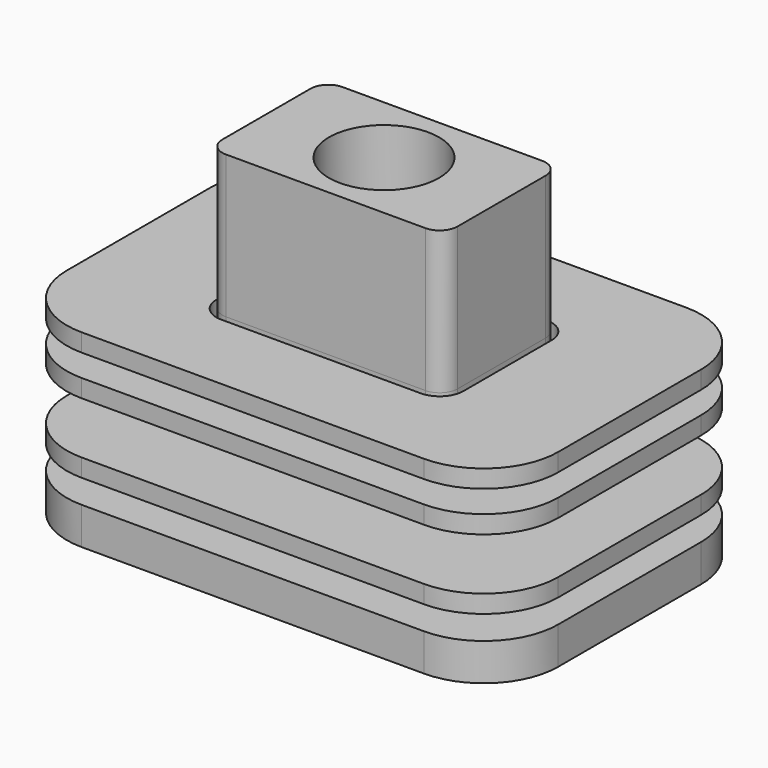
from build123d import *

# Parameters (mm, degrees)
F0_W           = 33
F0_H           = 22
F0_R           = 3.25
F1_DEPTH       = 2.5
F2_W           = 15.8
F2_H           = 9.8
F2_R           = 3.25
F3_DEPTH       = 7.8
F4_W           = 15.8
F4_H           = 9.8
F4_R           = 2.2
F5_DEPTH       = 2.4
F6_W           = 15.8
F6_H           = 9.8
F7_DEPTH       = 9.6
F9_D           = 4.4
F9_CBORE_D     = 7.4
F9_CBORE_DEPTH = 6.6
F10_R          = 5
F11_R          = 1.2
F11_2_R        = 1.2
F13_DEPTH      = 1.2
F15_DEPTH      = 2.7
F17_DEPTH      = 1.2
F20_DEPTH      = 1.2


with BuildPart() as f1:
    # F0 (on Top) → F1 (new body)
    with BuildSketch(Plane.XY):
        Rectangle(F0_W, F0_H)
        Circle(F0_R, mode=Mode.SUBTRACT)
    extrude(amount=F1_DEPTH)

    # F2 (on face) → F3 (join)
    with BuildSketch(Plane.XY.offset(2.5)):
        Rectangle(F2_W, F2_H)
        Circle(F2_R, mode=Mode.SUBTRACT)
    extrude(amount=F3_DEPTH)

    # F4 (on face) → F5 (join)
    with BuildSketch(Plane.XY.offset(10.3)):
        Rectangle(F4_W, F4_H)
        Circle(F4_R, mode=Mode.SUBTRACT)
    extrude(amount=F5_DEPTH)

    # F10
    f10_edges = [f1.edges().sort_by_distance(p)[0] for p in [
        (16.5, -11, 1.25),
        (16.5, 11, 1.25),
        (-16.5, -11, 1.25),
        (-16.5, 11, 1.25),
    ]]
    fillet(f10_edges, radius=F10_R)

    # F11
    f11_edges = [f1.edges().sort_by_distance(p)[0] for p in [
        (-7.9, 4.9, 7.6),
        (-7.9, -4.9, 7.6),
        (7.9, 4.9, 7.6),
        (7.9, -4.9, 7.6),
    ]]
    fillet(f11_edges, radius=F11_R)


with BuildPart() as f7:
    # F6 (on face) → F7 (new body)
    with BuildSketch(Plane.XY.offset(12.7)):
        Rectangle(F6_W, F6_H)
    extrude(amount=F7_DEPTH)

    # F9 (through all)
    with Locations(Plane.XY.offset(22.3)):
        with Locations((0, 0)):
            CounterBoreHole(F9_D / 2, F9_CBORE_D / 2, F9_CBORE_DEPTH)

    # F11#2
    f11_2_edges = [f7.edges().sort_by_distance(p)[0] for p in [
        (7.9, 4.9, 17.5),
        (7.9, -4.9, 17.5),
        (-7.9, 4.9, 17.5),
        (-7.9, -4.9, 17.5),
    ]]
    fillet(f11_2_edges, radius=F11_2_R)


with BuildPart() as f13:
    # F12 (on face) → F13 (new body)
    with BuildSketch(Plane.XY.offset(12.7)):
        with BuildLine():
            Line((11.5, 11), (-11.5, 11))
            ThreePointArc((-11.5, 11), (-15.035534, 9.535534), (-16.5, 6))
            Line((-16.5, 6), (-16.5, -6))
            ThreePointArc((-16.5, -6), (-15.035534, -9.535534), (-11.5, -11))
            Line((-11.5, -11), (11.5, -11))
            ThreePointArc((11.5, -11), (15.035534, -9.535534), (16.5, -6))
            Line((16.5, -6), (16.5, 6))
            ThreePointArc((16.5, 6), (15.035534, 9.535534), (11.5, 11))
        make_face()
        with BuildLine():
            Line((-6.7, 5.3), (6.7, 5.3))
            ThreePointArc((6.7, 5.3), (7.831371, 4.831371), (8.3, 3.7))
            Line((8.3, 3.7), (8.3, -3.7))
            ThreePointArc((8.3, -3.7), (7.831371, -4.831371), (6.7, -5.3))
            Line((6.7, -5.3), (-6.7, -5.3))
            ThreePointArc((-6.7, -5.3), (-7.831371, -4.831371), (-8.3, -3.7))
            Line((-8.3, -3.7), (-8.3, 3.7))
            ThreePointArc((-8.3, 3.7), (-7.831371, 4.831371), (-6.7, 5.3))
        make_face(mode=Mode.SUBTRACT)
    extrude(amount=-F13_DEPTH)

    # F14 (on face) → F15 (join)
    with BuildSketch(Plane(origin=(0, 0, 11.5), x_dir=(1, 0, 0), z_dir=(0, 0, -1))):
        with BuildLine():
            ThreePointArc((-6.7, 6.5), (-8.679899, 5.679899), (-9.5, 3.7))
            Line((-9.5, 3.7), (-9.5, -3.7))
            ThreePointArc((-9.5, -3.7), (-8.679899, -5.679899), (-6.7, -6.5))
            Line((-6.7, -6.5), (6.7, -6.5))
            ThreePointArc((6.7, -6.5), (8.679899, -5.679899), (9.5, -3.7))
            Line((9.5, -3.7), (9.5, 3.7))
            ThreePointArc((9.5, 3.7), (8.679899, 5.679899), (6.7, 6.5))
            Line((6.7, 6.5), (-6.7, 6.5))
        make_face()
        with BuildLine():
            Line((-6.7, 5.3), (6.7, 5.3))
            ThreePointArc((6.7, 5.3), (7.831371, 4.831371), (8.3, 3.7))
            Line((8.3, 3.7), (8.3, -3.7))
            ThreePointArc((8.3, -3.7), (7.831371, -4.831371), (6.7, -5.3))
            Line((6.7, -5.3), (-6.7, -5.3))
            ThreePointArc((-6.7, -5.3), (-7.831371, -4.831371), (-8.3, -3.7))
            Line((-8.3, -3.7), (-8.3, 3.7))
            ThreePointArc((-8.3, 3.7), (-7.831371, 4.831371), (-6.7, 5.3))
        make_face(mode=Mode.SUBTRACT)
    extrude(amount=F15_DEPTH)


with BuildPart() as f17:
    # F16 (on face) → F17 (new body)
    with BuildSketch(Plane(origin=(0, 0, 8.8), x_dir=(1, 0, 0), z_dir=(0, 0, -1))):
        with BuildLine():
            ThreePointArc((-11.5, 11), (-15.035534, 9.535534), (-16.5, 6))
            Line((-16.5, 6), (-16.5, -6))
            ThreePointArc((-16.5, -6), (-15.035534, -9.535534), (-11.5, -11))
            Line((-11.5, -11), (11.5, -11))
            ThreePointArc((11.5, -11), (15.035534, -9.535534), (16.5, -6))
            Line((16.5, -6), (16.5, 6))
            ThreePointArc((16.5, 6), (15.035534, 9.535534), (11.5, 11))
            Line((11.5, 11), (-11.5, 11))
        make_face()
        with BuildLine():
            Line((-6.7, 6.8), (6.7, 6.8))
            ThreePointArc((6.7, 6.8), (8.892031, 5.892031), (9.8, 3.7))
            Line((9.8, 3.7), (9.8, -3.7))
            ThreePointArc((9.8, -3.7), (8.892031, -5.892031), (6.7, -6.8))
            Line((6.7, -6.8), (-6.7, -6.8))
            ThreePointArc((-6.7, -6.8), (-8.892031, -5.892031), (-9.8, -3.7))
            Line((-9.8, -3.7), (-9.8, 3.7))
            ThreePointArc((-9.8, 3.7), (-8.892031, 5.892031), (-6.7, 6.8))
        make_face(mode=Mode.SUBTRACT)
    extrude(amount=-F17_DEPTH)


with BuildPart() as f20:
    # F19 (on offset) → F20 (new body)
    with BuildSketch(Plane.XY.offset(4.1)):
        with BuildLine():
            Line((11.5, 11), (-11.5, 11))
            ThreePointArc((-11.5, 11), (-15.035534, 9.535534), (-16.5, 6))
            Line((-16.5, 6), (-16.5, -6))
            ThreePointArc((-16.5, -6), (-15.035534, -9.535534), (-11.5, -11))
            Line((-11.5, -11), (11.5, -11))
            ThreePointArc((11.5, -11), (15.035534, -9.535534), (16.5, -6))
            Line((16.5, -6), (16.5, 6))
            ThreePointArc((16.5, 6), (15.035534, 9.535534), (11.5, 11))
        make_face()
        with BuildLine():
            Line((-6.7, 5.2), (6.7, 5.2))
            ThreePointArc((6.7, 5.2), (7.76066, 4.76066), (8.2, 3.7))
            Line((8.2, 3.7), (8.2, -3.7))
            ThreePointArc((8.2, -3.7), (7.76066, -4.76066), (6.7, -5.2))
            Line((6.7, -5.2), (-6.7, -5.2))
            ThreePointArc((-6.7, -5.2), (-7.76066, -4.76066), (-8.2, -3.7))
            Line((-8.2, -3.7), (-8.2, 3.7))
            ThreePointArc((-8.2, 3.7), (-7.76066, 4.76066), (-6.7, 5.2))
        make_face(mode=Mode.SUBTRACT)
    extrude(amount=F20_DEPTH)


solid = Compound([f1.part, f7.part, f13.part, f17.part, f20.part])
